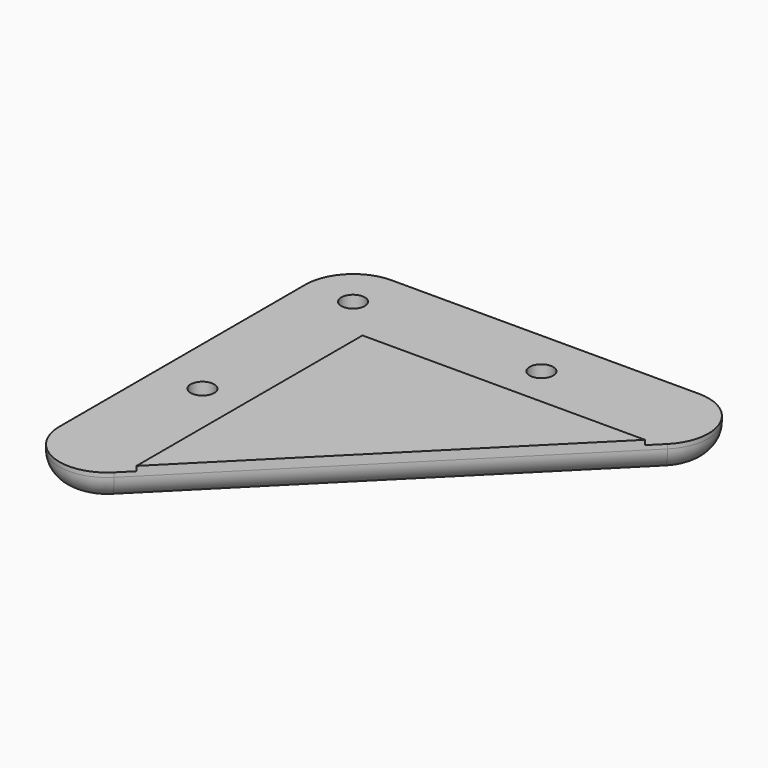
from build123d import *

# Parameters (mm, degrees)
F1_DEPTH = 3
F2_DEPTH = 3.5
F3_R     = 1.25
F4_DEPTH = 2
F5_R     = 5.08
F6_R     = 2.54


with BuildPart() as f1:
    # F0 (on Top) → F1 (new body)
    with BuildSketch(Plane.XY):
        Polygon((15, 15), (25, 25), (-25, 25), (-25, -25), (-15, -15), (-15, 15), align=None)
    extrude(amount=F1_DEPTH)

    # F0 (on Top) → F2 (join)
    with BuildSketch(Plane.XY):
        Polygon((-15, -15), (15, 15), (-15, 15), align=None)
    extrude(amount=F2_DEPTH)

    # F3 (on face) → F4 (cut)
    with BuildSketch(Plane.XY.offset(3)):
        with Locations((-20, 20)):
            Circle(F3_R)
        with Locations((0, 20)):
            Circle(F3_R)
        with Locations((-20, 0)):
            Circle(F3_R)
    extrude(amount=-F4_DEPTH, mode=Mode.SUBTRACT)

    # F5
    f5_edges = [f1.edges().sort_by_distance(p)[0] for p in [
        (-25, 25, 1.5),
        (25, 25, 1.5),
        (-25, -25, 1.5),
    ]]
    fillet(f5_edges, radius=F5_R)

    # F6
    f6_edges = [f1.edges().sort_by_distance(p)[0] for p in [
        (-3.592102, 25, 0),
        (17.429103, 21.864032, 0),
        (-23.512102, 23.512102, 0),
        (0, 0, 0),
        (-25, 3.592102, 0),
        (-21.864032, -17.429103, 0),
    ]]
    fillet(f6_edges, radius=F6_R)


solid = f1.part
